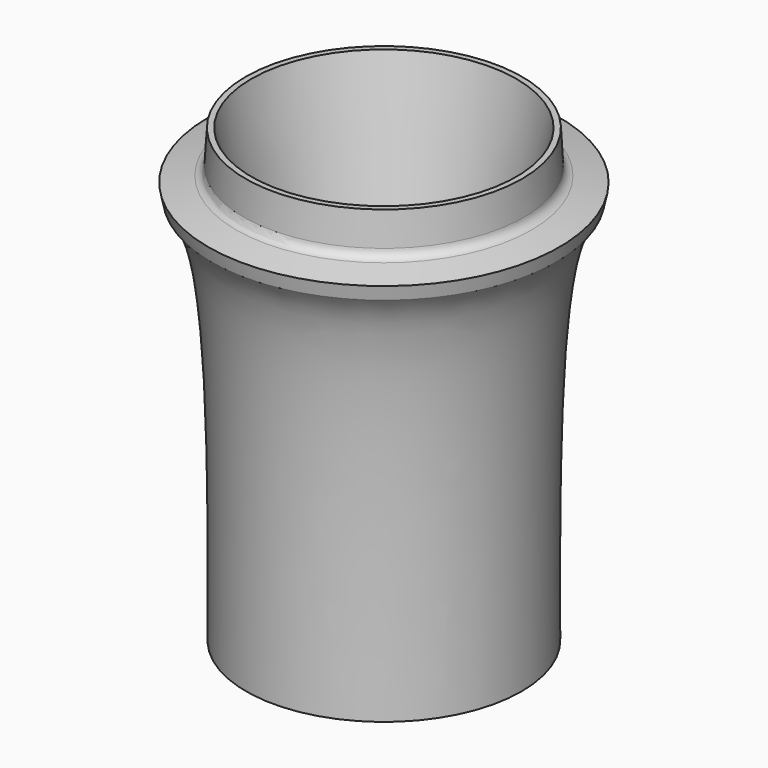
from build123d import *


with BuildPart() as f1:
    # F0 (on Front) → F1 (revolve)
    with BuildSketch(Plane.XZ):
        with BuildLine():
            Line((-27.9, 7), (-29.1, 7))
            Line((-29.1, 7), (-29.5, 0))
            ThreePointArc((-29.5, 0), (-29.977877, -1.187072), (-31.077542, -1.841475))
            Line((-31.077542, -1.841475), (-36.944266, -3.099075))
            Line((-36.944266, -3.099075), (-36.315465, -6.032437))
            add(Edge.make_bspline(
                [(-36.315465, -6.032437), (-31.120499, -11.492784), (-28.629433, -26.551809), (-29, -88)],
                knots=[0, 0, 0, 0, 82.293362, 82.293362, 82.293362, 82.293362], degree=3))
            Line((-29, -88), (0, -88))
            Line((0, -88), (0, -53.40915))
            ThreePointArc((0, -53.40915), (-12.417609, -48.954825), (-19.172594, -37.62309))
            Line((-19.172594, -37.62309), (-27.9, 7))
        make_face()
    revolve(axis=Axis((0, 0, -70.704575), (0, 0, 1)))


solid = f1.part
